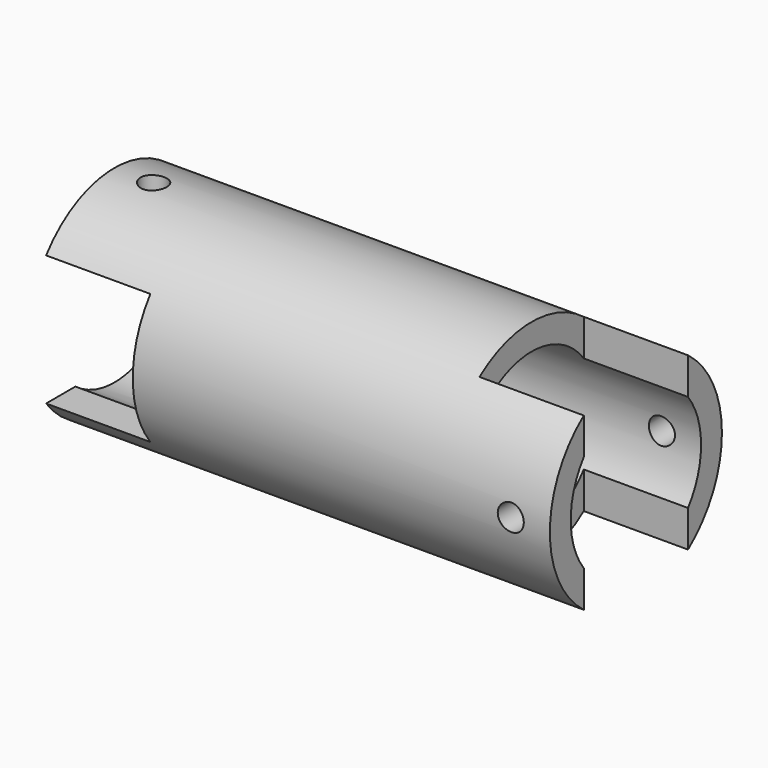
from build123d import *

# Parameters (mm, degrees)
F0_R          = 8.25
F0_R_2        = 6.25
F1_DEPTH      = 40
F2_W          = 20.5353749644
F2_H          = 10
F2_R          = 1
F3_DEPTH      = 25
F3_DEPTH_BACK = 25
F4_R          = 1
F4_W          = 9.5603424124
F4_H          = 10
F5_DEPTH      = 25
F5_DEPTH_BACK = 25


with BuildPart() as f1:
    # F0 (on Right) → F1 (new body)
    with BuildSketch(Plane.YZ):
        Circle(F0_R)
        Circle(F0_R_2, mode=Mode.SUBTRACT)
    extrude(amount=F1_DEPTH)

    # F2 (on Top) → F3 (cut, two sides)
    with BuildSketch(Plane.XY) as f3_sk:
        with Locations((42.2676874822, 0)):
            Rectangle(F2_W, F2_H)
        with Locations((3, 0)):
            Circle(F2_R)
    extrude(amount=-F3_DEPTH, mode=Mode.SUBTRACT)
    extrude(f3_sk.sketch, amount=F3_DEPTH_BACK, mode=Mode.SUBTRACT)

    # F4 (on Front) → F5 (cut, two sides)
    with BuildSketch(Plane.XZ) as f5_sk:
        with Locations((37, 0)):
            Circle(F4_R)
        with Locations((3.2198287938, 0)):
            Rectangle(F4_W, F4_H)
    extrude(amount=-F5_DEPTH, mode=Mode.SUBTRACT)
    extrude(f5_sk.sketch, amount=F5_DEPTH_BACK, mode=Mode.SUBTRACT)


solid = f1.part
